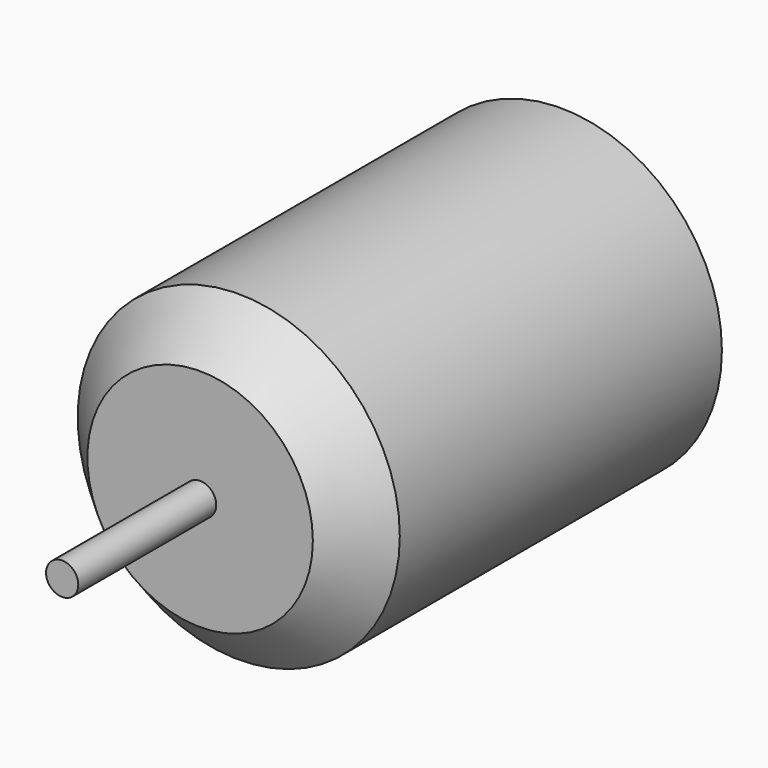
from build123d import *

# Parameters (mm, degrees)
F0_R     = 15.875
F1_DEPTH = 44.45
F2_SIZE  = 4.7625
F3_R     = 1.5875
F4_DEPTH = 17


with BuildPart() as f1:
    # F0 (on Front) → F1 (new body)
    with BuildSketch(Plane.XZ):
        Circle(F0_R)
    extrude(amount=F1_DEPTH)

    # F2
    f2_edges = [f1.edges().sort_by_distance(p)[0] for p in [
        (-15.875, -44.45, 0),
    ]]
    chamfer(f2_edges, length=F2_SIZE)

    # F3 (on face) → F4 (join)
    with BuildSketch(Plane.XZ.offset(44.45)):
        Circle(F3_R)
    extrude(amount=F4_DEPTH)


solid = f1.part
